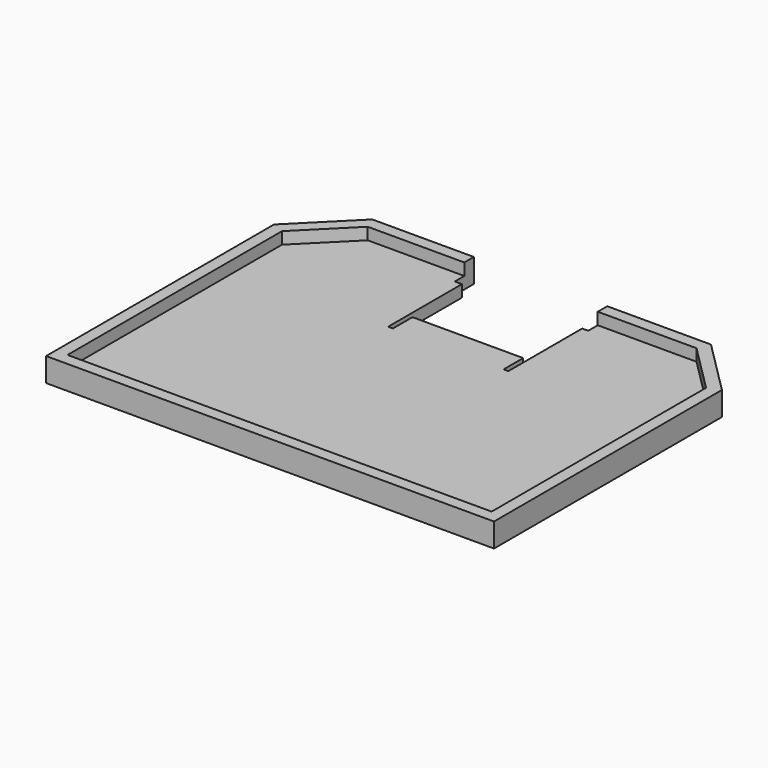
from build123d import *

# Parameters (mm, degrees)
F1_DEPTH = 10
F3_DEPTH = 5
F5_DEPTH = 5
F6_W     = 56
F6_H     = 8
F6_W_2   = 46.4636435509
F6_H_2   = 28.4405329078
F7_DEPTH = 10


with BuildPart() as f1:
    # F0 (on Top) → F1 (new body)
    with BuildSketch(Plane.XY):
        Polygon((-156.0579602718, 94.9992052239), (-156.0579602718, -24.5707947761), (31.9420397282, -24.5707947761), (31.9420397282, 94.9992052239), (9.0120397282, 117.9292052239), (-133.1279602718, 117.9292052239), align=None)
    extrude(amount=F1_DEPTH)

    # F2 (on face) → F3 (cut)
    with BuildSketch(Plane.XY.offset(10)):
        Polygon((26.9420397282, 92.9281374121), (6.9409719163, 112.9292052239), (-131.05689246, 112.9292052239), (-151.0579602718, 92.9281374121), (-151.0579602718, -19.5707947761), (26.9420397282, -19.5707947761), align=None)
    extrude(amount=-F3_DEPTH, mode=Mode.SUBTRACT)

    # F4 (on face) → F5 (cut)
    with BuildSketch(Plane.XY.offset(5)):
        Polygon((-87.5216038227, 107.9292052239), (-87.5216038227, 69.2292052239), (-85.5216038227, 69.2292052239), (-85.5216038227, 107.9292052239), (-39.0579602718, 107.9292052239), (-39.0579602718, 69.2292052239), (-37.0579602718, 69.2292052239), (-37.0579602718, 107.9292052239), (-34.5216038227, 107.9292052239), (-34.5216038227, 109.9292052239), (-87.5216038227, 109.9292052239), (-90.5216038227, 109.9292052239), (-90.5216038227, 107.9292052239), align=None)
    extrude(amount=-F5_DEPTH, mode=Mode.SUBTRACT)

    # F6 (on face) → F7 (cut)
    with BuildSketch(Plane(origin=(0, 0, 0), x_dir=(1, 0, 0), z_dir=(0, 0, -1))):
        with Locations((-62.5216038227, -113.9292052239)):
            Rectangle(F6_W, F6_H)
        with Locations((-62.2897820473, -93.70893877)):
            Rectangle(F6_W_2, F6_H_2)
    extrude(amount=-F7_DEPTH, mode=Mode.SUBTRACT)


solid = f1.part
